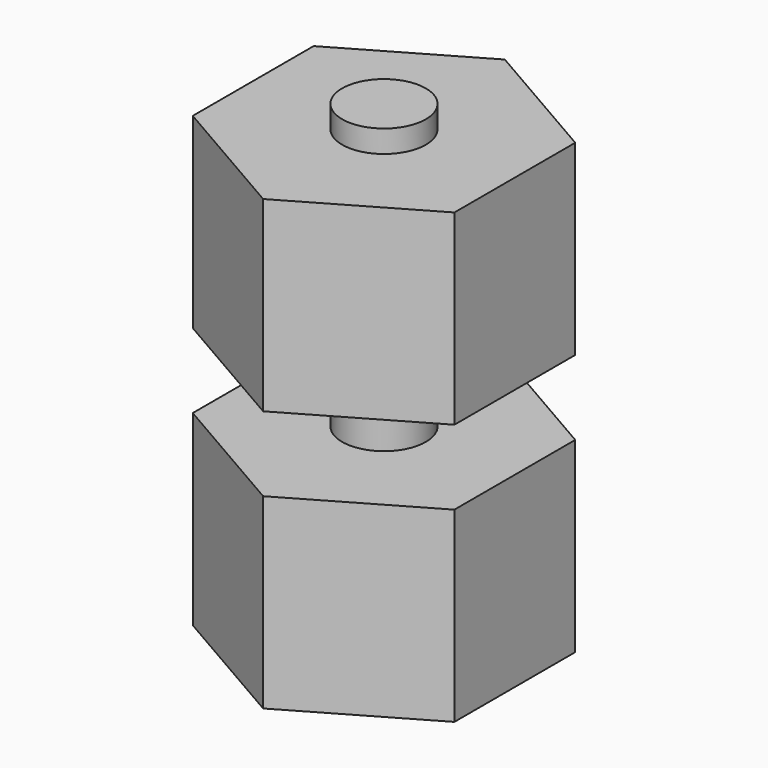
from build123d import *

# Parameters (mm, degrees)
F0_R          = 1.4221963341
F1_DEPTH      = 6.35
F2_DEPTH      = 0.762
F2_DEPTH_BACK = 15.24
F3_START      = -8.89
F3_DEPTH      = 6.35


with BuildPart() as f1:
    # F0 (on Top) → F1 (new body)
    with BuildSketch(Plane.XY):
        Polygon((4.445, -2.5663219465), (4.445, 2.5663219465), (0, 5.1326438931), (-4.445, 2.5663219465), (-4.445, -2.5663219465), (0, -5.1326438931), align=None)
        Circle(F0_R, mode=Mode.SUBTRACT)
    extrude(amount=-F1_DEPTH)

    # F0 (on Top) → F2 (join, two sides)
    with BuildSketch(Plane.XY) as f2_sk:
        Circle(F0_R)
    extrude(amount=F2_DEPTH)
    extrude(f2_sk.sketch, amount=-F2_DEPTH_BACK)

    # F0 (on Top) → F3 (join)
    with BuildSketch(Plane.XY.offset(F3_START)):
        Polygon((4.445, -2.5663219465), (4.445, 2.5663219465), (0, 5.1326438931), (-4.445, 2.5663219465), (-4.445, -2.5663219465), (0, -5.1326438931), align=None)
        Circle(F0_R, mode=Mode.SUBTRACT)
    extrude(amount=-F3_DEPTH)


solid = f1.part
